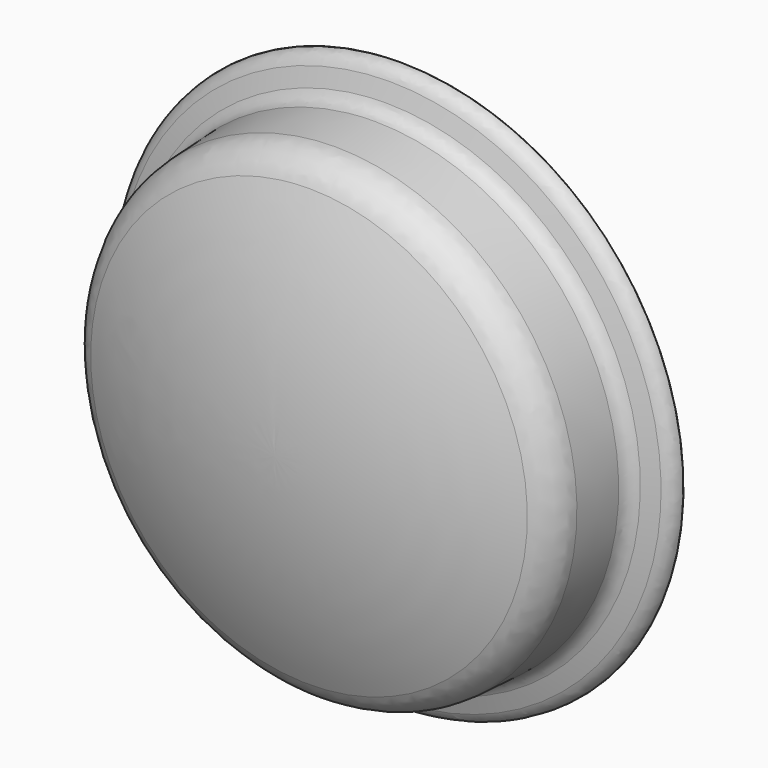
from build123d import *

# Parameters (mm, degrees)
FILLET055_R       = 1
FILLET056_R       = 0.4
FILLET057_R       = 0.4
FILLET057_FACE6_R = 7.5
POCKET054_DEPTH   = 0.2


with BuildPart() as part:
    # Sketch104 → Revolution005 (revolve)
    with BuildSketch(Plane.YZ):
        with BuildLine():
            Line((0, 0), (0, 7.5))
            Line((-0.5, 7.5), (0, 7.5))
            Line((-0.8, 6.5), (-0.5, 7.5))
            Line((-3, 6.384703), (-0.8, 6.5))
            ThreePointArc((-3, 6.384703), (-4.045891, 3.268196), (-4.4, 0))
            Line((-4.4, 0), (0, 0))
        make_face()
    revolve(axis=Axis((0, 0, 0), (0, 1, 0)))

    # Fillet055
    fillet055_edges = [part.edges().sort_by_distance(p)[0] for p in [
        (0, -3, -6.384703),
    ]]
    fillet(fillet055_edges, radius=FILLET055_R)

    # Fillet056
    fillet056_edges = [part.edges().sort_by_distance(p)[0] for p in [
        (0, -0.8, -6.5),
    ]]
    fillet(fillet056_edges, radius=FILLET056_R)

    # Fillet057
    fillet057_edges = [part.edges().sort_by_distance(p)[0] for p in [
        (0, -0.5, -7.5),
    ]]
    fillet(fillet057_edges, radius=FILLET057_R)

    # Fillet057 Face6 → Pocket054 (cut)
    with BuildSketch(Plane(origin=(0, 0, 0), x_dir=(1, 0, 0), z_dir=(0, 1, 0))):
        Circle(FILLET057_FACE6_R)
    extrude(amount=-POCKET054_DEPTH, mode=Mode.SUBTRACT)


solid = part.part
